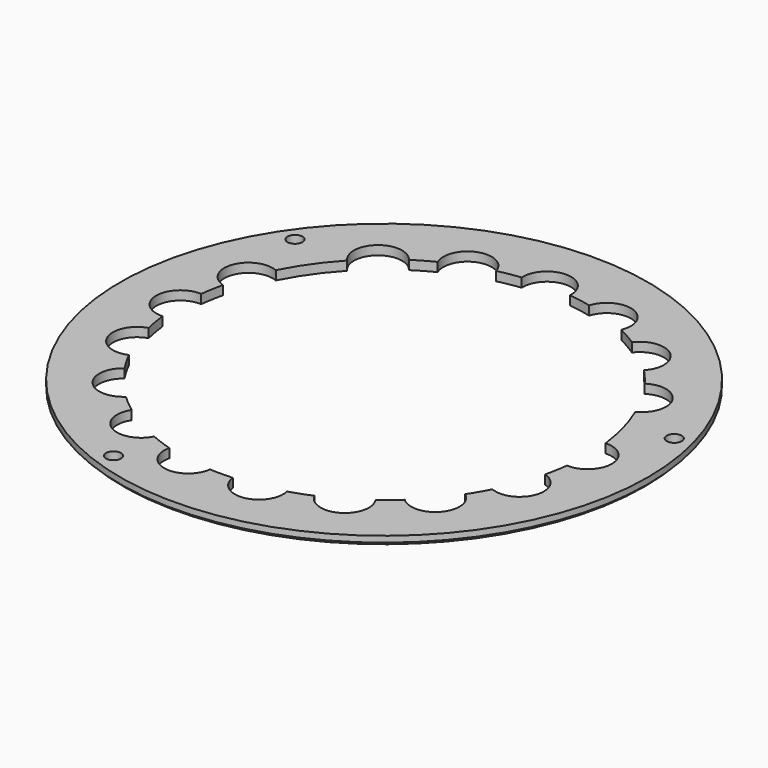
from build123d import *

# Parameters (mm, degrees)
F0_R     = 17.5
F0_R_2   = 0.5
F1_DEPTH = 0.6
F2_SIZE  = 0.2


with BuildPart() as f1:
    # F0 (on Top) → F1 (new body)
    with BuildSketch(Plane.XY):
        Circle(F0_R)
        with Locations((-5.60913, -15.410959)):
            Circle(F0_R_2, mode=Mode.SUBTRACT)
        with Locations((-13.434094, 9.406654)):
            Circle(F0_R_2, mode=Mode.SUBTRACT)
        with BuildLine():
            ThreePointArc((12.407825, 5.319387), (13.039999, 3.494057), (13.405185, 1.597188))
            ThreePointArc((13.405185, 1.597188), (14.597337, 1.164411), (15.1, 0))
            ThreePointArc((15.1, 0), (14.597337, -1.164411), (13.405185, -1.597188))
            ThreePointArc((13.405185, -1.597188), (13.294905, -2.34425), (13.143024, -3.083977))
            ThreePointArc((13.143024, -3.083977), (13.968714, -3.661102), (14.28585, -4.617272))
            ThreePointArc((14.28585, -4.617272), (13.564318, -5.954543), (12.050483, -6.085709))
            ThreePointArc((12.050483, -6.085709), (11.691343, -6.75), (11.29562, -7.39317))
            ThreePointArc((11.29562, -7.39317), (11.771011, -7.958756), (11.9416, -8.677633))
            ThreePointArc((11.9416, -8.677633), (10.974507, -10.147132), (9.242315, -9.840204))
            ThreePointArc((9.242315, -9.840204), (8.677633, -10.3416), (8.085798, -10.810637))
            ThreePointArc((8.085798, -10.810637), (8.282527, -11.231602), (8.35, -11.691343))
            ThreePointArc((8.35, -11.691343), (7.118116, -13.24842), (5.319387, -12.407825))
            ThreePointArc((5.319387, -12.407825), (4.617272, -12.68585), (3.900709, -12.924181))
            ThreePointArc((3.900709, -12.924181), (3.933328, -13.108269), (3.94425, -13.294905))
            ThreePointArc((3.94425, -13.294905), (2.436391, -14.892249), (0.754863, -13.478879))
            ThreePointArc((0.754863, -13.478879), (0, -13.5), (-0.754863, -13.478879))
            ThreePointArc((-0.754863, -13.478879), (-2.622087, -14.870597), (-3.900709, -12.924181))
            ThreePointArc((-3.900709, -12.924181), (-4.617272, -12.68585), (-5.319387, -12.407825))
            ThreePointArc((-5.319387, -12.407825), (-7.55, -13.076984), (-8.085798, -10.810637))
            ThreePointArc((-8.085798, -10.810637), (-8.677633, -10.3416), (-9.242315, -9.840204))
            ThreePointArc((-9.242315, -9.840204), (-11.567271, -9.706093), (-11.29562, -7.39317))
            ThreePointArc((-11.29562, -7.39317), (-11.691343, -6.75), (-12.050483, -6.085709))
            ThreePointArc((-12.050483, -6.085709), (-14.189359, -5.164504), (-13.143024, -3.083977))
            ThreePointArc((-13.143024, -3.083977), (-13.294905, -2.34425), (-13.405185, -1.597188))
            ThreePointArc((-13.405185, -1.597188), (-15.1, 0), (-13.405185, 1.597188))
            ThreePointArc((-13.405185, 1.597188), (-13.294905, 2.34425), (-13.143024, 3.083977))
            ThreePointArc((-13.143024, 3.083977), (-14.189359, 5.164504), (-12.050483, 6.085709))
            ThreePointArc((-12.050483, 6.085709), (-11.058553, 7.743282), (-9.840204, 9.242315))
            ThreePointArc((-9.840204, 9.242315), (-9.706093, 11.567271), (-7.39317, 11.29562))
            ThreePointArc((-7.39317, 11.29562), (-6.75, 11.691343), (-6.085709, 12.050483))
            ThreePointArc((-6.085709, 12.050483), (-5.164504, 14.189359), (-3.083977, 13.143024))
            ThreePointArc((-3.083977, 13.143024), (-2.34425, 13.294905), (-1.597188, 13.405185))
            ThreePointArc((-1.597188, 13.405185), (-0.047428, 15.099297), (1.6, 13.5))
            ThreePointArc((1.6, 13.5), (1.599297, 13.452572), (1.597188, 13.405185))
            ThreePointArc((1.597188, 13.405185), (2.34425, 13.294905), (3.083977, 13.143024))
            ThreePointArc((3.083977, 13.143024), (4.848279, 14.269086), (6.217272, 12.68585))
            ThreePointArc((6.217272, 12.68585), (6.184036, 12.361428), (6.085709, 12.050483))
            ThreePointArc((6.085709, 12.050483), (6.75, 11.691343), (7.39317, 11.29562))
            ThreePointArc((7.39317, 11.29562), (9.180057, 11.860669), (10.277633, 10.3416))
            ThreePointArc((10.277633, 10.3416), (10.164259, 9.75004), (9.840204, 9.242315))
            ThreePointArc((9.840204, 9.242315), (10.3416, 8.677633), (10.810637, 8.085798))
            ThreePointArc((10.810637, 8.085798), (12.449917, 8.158746), (13.291343, 6.75))
            ThreePointArc((13.291343, 6.75), (13.052661, 5.909277), (12.407825, 5.319387))
        make_face(mode=Mode.SUBTRACT)
        with Locations((15.841184, 4.244632)):
            Circle(F0_R_2, mode=Mode.SUBTRACT)
    extrude(amount=F1_DEPTH)

    # F2
    f2_edges = [f1.edges().sort_by_distance(p)[0] for p in [
        (-17.5, 0, 0),
    ]]
    chamfer(f2_edges, length=F2_SIZE)


solid = f1.part
